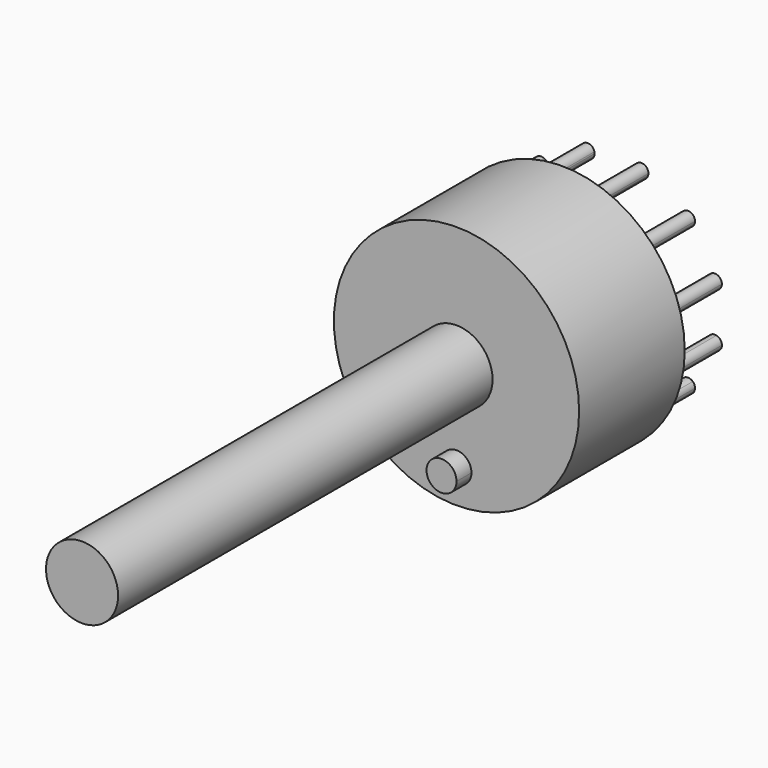
from build123d import *

# Parameters (mm, degrees)
F0_R     = 13.1
F0_R_2   = 3.85
F1_DEPTH = 14.1
F2_DEPTH = 16.1
F3_DEPTH = 64.1
F4_DEPTH = 7


with BuildPart() as f1:
    # F0 (on Front) → F1 (new body)
    with BuildSketch(Plane.XZ):
        Circle(F0_R)
        with BuildLine():
            ThreePointArc((2.1423026541, 10.8913056765), (2.9582097459, 11.4669080562), (3.6228914006, 10.7217766718))
            ThreePointArc((3.6228914006, 10.7217766718), (3.6147150614, 10.6113336716), (3.5903643172, 10.5032987232))
            ThreePointArc((3.5903643172, 10.5032987232), (5.55, 9.612881982), (7.3009413593, 8.3609960692))
            ThreePointArc((7.3009413593, 8.3609960692), (8.1241506577, 8.5465449066), (8.5988852712, 7.8488852712))
            ThreePointArc((8.5988852712, 7.8488852712), (8.5368471518, 7.5502074334), (8.3609960692, 7.3009413593))
            ThreePointArc((8.3609960692, 7.3009413593), (9.612881982, 5.55), (10.5032987232, 3.5903643172))
            ThreePointArc((10.5032987232, 3.5903643172), (11.1682302184, 3.475534936), (11.4717766718, 2.8728914006))
            ThreePointArc((11.4717766718, 2.8728914006), (11.3089933071, 2.4063331264), (10.8913056765, 2.1423026541))
            ThreePointArc((10.8913056765, 2.1423026541), (11.047703223, 1.0762218617), (11.1, 0))
            ThreePointArc((11.1, 0), (11.047703223, -1.0762218617), (10.8913056765, -2.1423026541))
            ThreePointArc((10.8913056765, -2.1423026541), (11.3089933071, -2.4063331264), (11.4717766718, -2.8728914006))
            ThreePointArc((11.4717766718, -2.8728914006), (11.1682302184, -3.475534936), (10.5032987232, -3.5903643172))
            ThreePointArc((10.5032987232, -3.5903643172), (9.612881982, -5.55), (8.3609960692, -7.3009413593))
            ThreePointArc((8.3609960692, -7.3009413593), (8.5368471518, -7.5502074334), (8.5988852712, -7.8488852712))
            ThreePointArc((8.5988852712, -7.8488852712), (8.1241506577, -8.5465449066), (7.3009413593, -8.3609960692))
            ThreePointArc((7.3009413593, -8.3609960692), (5.55, -9.612881982), (3.5903643172, -10.5032987232))
            ThreePointArc((3.5903643172, -10.5032987232), (3.6147150614, -10.6113336716), (3.6228914006, -10.7217766718))
            ThreePointArc((3.6228914006, -10.7217766718), (2.9582097459, -11.4669080562), (2.1423026541, -10.8913056765))
            ThreePointArc((2.1423026541, -10.8913056765), (1.0762218494, -11.0477032242), (-2.47e-08, -11.1))
            ThreePointArc((-2.47e-08, -11.1), (-1.076221874, -11.0477032218), (-2.1423026541, -10.8913056765))
            ThreePointArc((-2.1423026541, -10.8913056765), (-3.0670056845, -11.4462210415), (-3.5903643172, -10.5032987232))
            ThreePointArc((-3.5903643172, -10.5032987232), (-5.55, -9.612881982), (-7.3009413593, -8.3609960692))
            ThreePointArc((-7.3009413593, -8.3609960692), (-8.3792153571, -8.3792153571), (-8.3609960692, -7.3009413593))
            ThreePointArc((-8.3609960692, -7.3009413593), (-9.612881982, -5.55), (-10.5032987232, -3.5903643172))
            ThreePointArc((-10.5032987232, -3.5903643172), (-11.4462210415, -3.0670056845), (-10.8913056765, -2.1423026541))
            ThreePointArc((-10.8913056765, -2.1423026541), (-11.1, 0), (-10.8913056765, 2.1423026541))
            ThreePointArc((-10.8913056765, 2.1423026541), (-11.4462210415, 3.0670056845), (-10.5032987232, 3.5903643172))
            ThreePointArc((-10.5032987232, 3.5903643172), (-9.612881982, 5.55), (-8.3609960692, 7.3009413593))
            ThreePointArc((-8.3609960692, 7.3009413593), (-8.3792153571, 8.3792153571), (-7.3009413593, 8.3609960692))
            ThreePointArc((-7.3009413593, 8.3609960692), (-5.55, 9.612881982), (-3.5903643172, 10.5032987232))
            ThreePointArc((-3.5903643172, 10.5032987232), (-3.0670056845, 11.4462210415), (-2.1423026541, 10.8913056765))
            ThreePointArc((-2.1423026541, 10.8913056765), (0, 11.1), (2.1423026541, 10.8913056765))
        make_face(mode=Mode.SUBTRACT)
        with BuildLine():
            ThreePointArc((3.5903643172, 10.5032987232), (2.8728914006, 10.7217766718), (2.1423026541, 10.8913056765))
            ThreePointArc((2.1423026541, 10.8913056765), (2.6787771168, 9.9973323021), (3.5903643172, 10.5032987232))
        make_face()
        with BuildLine():
            ThreePointArc((-3.5903643172, 10.5032987232), (-2.8728914006, 10.7217766718), (-2.1423026541, 10.8913056765))
            ThreePointArc((-2.1423026541, 10.8913056765), (-3.0670056845, 11.4462210415), (-3.5903643172, 10.5032987232))
        make_face()
        with BuildLine():
            ThreePointArc((8.3609960692, 7.3009413593), (7.8488852712, 7.8488852712), (7.3009413593, 8.3609960692))
            ThreePointArc((7.3009413593, 8.3609960692), (7.3185551853, 7.3185551853), (8.3609960692, 7.3009413593))
        make_face()
        with BuildLine():
            ThreePointArc((11.4717766718, 2.8728914006), (11.1682302184, 3.475534936), (10.5032987232, 3.5903643172))
            ThreePointArc((10.5032987232, 3.5903643172), (10.7217766718, 2.8728914006), (10.8913056765, 2.1423026541))
            ThreePointArc((10.8913056765, 2.1423026541), (11.3089933071, 2.4063331264), (11.4717766718, 2.8728914006))
        make_face()
        with BuildLine():
            ThreePointArc((10.5032987232, -3.5903643172), (10.7217766718, -2.8728914006), (10.8913056765, -2.1423026541))
            ThreePointArc((10.8913056765, -2.1423026541), (9.9973323021, -2.6787771168), (10.5032987232, -3.5903643172))
        make_face()
        with BuildLine():
            ThreePointArc((7.3009413593, -8.3609960692), (7.8488852712, -7.8488852712), (8.3609960692, -7.3009413593))
            ThreePointArc((8.3609960692, -7.3009413593), (7.3185551853, -7.3185551853), (7.3009413593, -8.3609960692))
        make_face()
        with BuildLine():
            ThreePointArc((2.1423026541, -10.8913056765), (2.8728914006, -10.7217766718), (3.5903643172, -10.5032987232))
            ThreePointArc((3.5903643172, -10.5032987232), (2.6787771168, -9.9973323021), (2.1423026541, -10.8913056765))
        make_face()
        with BuildLine():
            ThreePointArc((-8.3609960692, 7.3009413593), (-7.8488852712, 7.8488852712), (-7.3009413593, 8.3609960692))
            ThreePointArc((-7.3009413593, 8.3609960692), (-8.3792153571, 8.3792153571), (-8.3609960692, 7.3009413593))
        make_face()
        with BuildLine():
            ThreePointArc((-10.8913056765, 2.1423026541), (-10.7217766718, 2.8728914006), (-10.5032987232, 3.5903643172))
            ThreePointArc((-10.5032987232, 3.5903643172), (-11.4462210415, 3.0670056845), (-10.8913056765, 2.1423026541))
        make_face()
        with BuildLine():
            ThreePointArc((-10.5032987232, -3.5903643172), (-10.7217766718, -2.8728914006), (-10.8913056765, -2.1423026541))
            ThreePointArc((-10.8913056765, -2.1423026541), (-11.4462210415, -3.0670056845), (-10.5032987232, -3.5903643172))
        make_face()
        with BuildLine():
            ThreePointArc((-7.3009413593, -8.3609960692), (-7.8488852712, -7.8488852712), (-8.3609960692, -7.3009413593))
            ThreePointArc((-8.3609960692, -7.3009413593), (-8.3792153571, -8.3792153571), (-7.3009413593, -8.3609960692))
        make_face()
        with BuildLine():
            ThreePointArc((-2.1423026541, -10.8913056765), (-2.8728914006, -10.7217766718), (-3.5903643172, -10.5032987232))
            ThreePointArc((-3.5903643172, -10.5032987232), (-3.0670056845, -11.4462210415), (-2.1423026541, -10.8913056765))
        make_face()
        with BuildLine():
            ThreePointArc((3.5903643172, 10.5032987232), (2.6787771168, 9.9973323021), (2.1423026541, 10.8913056765))
            ThreePointArc((2.1423026541, 10.8913056765), (0, 11.1), (-2.1423026541, 10.8913056765))
            ThreePointArc((-2.1423026541, 10.8913056765), (-2.1277600163, 10.8070950171), (-2.1228914006, 10.7217766718))
            ThreePointArc((-2.1228914006, 10.7217766718), (-2.7624484004, 9.979953011), (-3.5903643172, 10.5032987232))
            ThreePointArc((-3.5903643172, 10.5032987232), (-5.55, 9.612881982), (-7.3009413593, 8.3609960692))
            ThreePointArc((-7.3009413593, 8.3609960692), (-7.1512256357, 8.1241506577), (-7.0988852712, 7.8488852712))
            ThreePointArc((-7.0988852712, 7.8488852712), (-7.5502074334, 7.1609233905), (-8.3609960692, 7.3009413593))
            ThreePointArc((-8.3609960692, 7.3009413593), (-9.612881982, 5.55), (-10.5032987232, 3.5903643172))
            ThreePointArc((-10.5032987232, 3.5903643172), (-10.1191331364, 3.3193449473), (-9.9717766718, 2.8728914006))
            ThreePointArc((-9.9717766718, 2.8728914006), (-10.2552183976, 2.2856747654), (-10.8913056765, 2.1423026541))
            ThreePointArc((-10.8913056765, 2.1423026541), (-11.1, 0), (-10.8913056765, -2.1423026541))
            ThreePointArc((-10.8913056765, -2.1423026541), (-10.2552183976, -2.2856747654), (-9.9717766718, -2.8728914006))
            ThreePointArc((-9.9717766718, -2.8728914006), (-10.1191331364, -3.3193449473), (-10.5032987232, -3.5903643172))
            ThreePointArc((-10.5032987232, -3.5903643172), (-9.612881982, -5.55), (-8.3609960692, -7.3009413593))
            ThreePointArc((-8.3609960692, -7.3009413593), (-7.5502074334, -7.1609233905), (-7.0988852712, -7.8488852712))
            ThreePointArc((-7.0988852712, -7.8488852712), (-7.1512256357, -8.1241506577), (-7.3009413593, -8.3609960692))
            ThreePointArc((-7.3009413593, -8.3609960692), (-5.55, -9.612881982), (-3.5903643172, -10.5032987232))
            ThreePointArc((-3.5903643172, -10.5032987232), (-2.7624484004, -9.979953011), (-2.1228914006, -10.7217766718))
            ThreePointArc((-2.1228914006, -10.7217766718), (-2.1277600163, -10.8070950171), (-2.1423026541, -10.8913056765))
            ThreePointArc((-2.1423026541, -10.8913056765), (-1.076221874, -11.0477032218), (-2.47e-08, -11.1))
            ThreePointArc((-2.47e-08, -11.1), (1.0762218494, -11.0477032242), (2.1423026541, -10.8913056765))
            ThreePointArc((2.1423026541, -10.8913056765), (2.6787771168, -9.9973323021), (3.5903643172, -10.5032987232))
            ThreePointArc((3.5903643172, -10.5032987232), (5.55, -9.612881982), (7.3009413593, -8.3609960692))
            ThreePointArc((7.3009413593, -8.3609960692), (7.3185551853, -7.3185551853), (8.3609960692, -7.3009413593))
            ThreePointArc((8.3609960692, -7.3009413593), (9.612881982, -5.55), (10.5032987232, -3.5903643172))
            ThreePointArc((10.5032987232, -3.5903643172), (9.9973323021, -2.6787771168), (10.8913056765, -2.1423026541))
            ThreePointArc((10.8913056765, -2.1423026541), (11.047703223, -1.0762218617), (11.1, 0))
            ThreePointArc((11.1, 0), (11.047703223, 1.0762218617), (10.8913056765, 2.1423026541))
            ThreePointArc((10.8913056765, 2.1423026541), (9.9973323021, 2.6787771168), (10.5032987232, 3.5903643172))
            ThreePointArc((10.5032987232, 3.5903643172), (9.612881982, 5.55), (8.3609960692, 7.3009413593))
            ThreePointArc((8.3609960692, 7.3009413593), (7.3185551853, 7.3185551853), (7.3009413593, 8.3609960692))
            ThreePointArc((7.3009413593, 8.3609960692), (5.55, 9.612881982), (3.5903643172, 10.5032987232))
        make_face()
        with BuildLine():
            ThreePointArc((1.6, -9.5), (1.1313708412, -10.6313708586), (-2.47e-08, -11.1))
            ThreePointArc((-2.47e-08, -11.1), (-1.1313708412, -8.3686291414), (1.6, -9.5))
        make_face(mode=Mode.SUBTRACT)
        Circle(F0_R_2, mode=Mode.SUBTRACT)
        with BuildLine():
            ThreePointArc((-7.0988852712, 7.8488852712), (-7.1512256357, 8.1241506577), (-7.3009413593, 8.3609960692))
            ThreePointArc((-7.3009413593, 8.3609960692), (-7.8488852712, 7.8488852712), (-8.3609960692, 7.3009413593))
            ThreePointArc((-8.3609960692, 7.3009413593), (-7.5502074334, 7.1609233905), (-7.0988852712, 7.8488852712))
        make_face()
        with BuildLine():
            ThreePointArc((-2.1228914006, 10.7217766718), (-2.1277600163, 10.8070950171), (-2.1423026541, 10.8913056765))
            ThreePointArc((-2.1423026541, 10.8913056765), (-2.8728914006, 10.7217766718), (-3.5903643172, 10.5032987232))
            ThreePointArc((-3.5903643172, 10.5032987232), (-2.7624484004, 9.979953011), (-2.1228914006, 10.7217766718))
        make_face()
        with BuildLine():
            ThreePointArc((3.5903643172, 10.5032987232), (3.6147150614, 10.6113336716), (3.6228914006, 10.7217766718))
            ThreePointArc((3.6228914006, 10.7217766718), (2.9582097459, 11.4669080562), (2.1423026541, 10.8913056765))
            ThreePointArc((2.1423026541, 10.8913056765), (2.8728914006, 10.7217766718), (3.5903643172, 10.5032987232))
        make_face()
        with BuildLine():
            ThreePointArc((8.5988852712, 7.8488852712), (8.1241506577, 8.5465449066), (7.3009413593, 8.3609960692))
            ThreePointArc((7.3009413593, 8.3609960692), (7.8488852712, 7.8488852712), (8.3609960692, 7.3009413593))
            ThreePointArc((8.3609960692, 7.3009413593), (8.5368471518, 7.5502074334), (8.5988852712, 7.8488852712))
        make_face()
        with BuildLine():
            ThreePointArc((10.8913056765, 2.1423026541), (10.7217766718, 2.8728914006), (10.5032987232, 3.5903643172))
            ThreePointArc((10.5032987232, 3.5903643172), (9.9973323021, 2.6787771168), (10.8913056765, 2.1423026541))
        make_face()
        with BuildLine():
            ThreePointArc((11.4717766718, -2.8728914006), (11.3089933071, -2.4063331264), (10.8913056765, -2.1423026541))
            ThreePointArc((10.8913056765, -2.1423026541), (10.7217766718, -2.8728914006), (10.5032987232, -3.5903643172))
            ThreePointArc((10.5032987232, -3.5903643172), (11.1682302184, -3.475534936), (11.4717766718, -2.8728914006))
        make_face()
        with BuildLine():
            ThreePointArc((8.5988852712, -7.8488852712), (8.5368471518, -7.5502074334), (8.3609960692, -7.3009413593))
            ThreePointArc((8.3609960692, -7.3009413593), (7.8488852712, -7.8488852712), (7.3009413593, -8.3609960692))
            ThreePointArc((7.3009413593, -8.3609960692), (8.1241506577, -8.5465449066), (8.5988852712, -7.8488852712))
        make_face()
        with BuildLine():
            ThreePointArc((3.6228914006, -10.7217766718), (3.6147150614, -10.6113336716), (3.5903643172, -10.5032987232))
            ThreePointArc((3.5903643172, -10.5032987232), (2.8728914006, -10.7217766718), (2.1423026541, -10.8913056765))
            ThreePointArc((2.1423026541, -10.8913056765), (2.9582097459, -11.4669080562), (3.6228914006, -10.7217766718))
        make_face()
        with BuildLine():
            ThreePointArc((-2.1228914006, -10.7217766718), (-2.7624484004, -9.979953011), (-3.5903643172, -10.5032987232))
            ThreePointArc((-3.5903643172, -10.5032987232), (-2.8728914006, -10.7217766718), (-2.1423026541, -10.8913056765))
            ThreePointArc((-2.1423026541, -10.8913056765), (-2.1277600163, -10.8070950171), (-2.1228914006, -10.7217766718))
        make_face()
        with BuildLine():
            ThreePointArc((-7.0988852712, -7.8488852712), (-7.5502074334, -7.1609233905), (-8.3609960692, -7.3009413593))
            ThreePointArc((-8.3609960692, -7.3009413593), (-7.8488852712, -7.8488852712), (-7.3009413593, -8.3609960692))
            ThreePointArc((-7.3009413593, -8.3609960692), (-7.1512256357, -8.1241506577), (-7.0988852712, -7.8488852712))
        make_face()
        with BuildLine():
            ThreePointArc((-9.9717766718, -2.8728914006), (-10.2552183976, -2.2856747654), (-10.8913056765, -2.1423026541))
            ThreePointArc((-10.8913056765, -2.1423026541), (-10.7217766718, -2.8728914006), (-10.5032987232, -3.5903643172))
            ThreePointArc((-10.5032987232, -3.5903643172), (-10.1191331364, -3.3193449473), (-9.9717766718, -2.8728914006))
        make_face()
        with BuildLine():
            ThreePointArc((-9.9717766718, 2.8728914006), (-10.1191331364, 3.3193449473), (-10.5032987232, 3.5903643172))
            ThreePointArc((-10.5032987232, 3.5903643172), (-10.7217766718, 2.8728914006), (-10.8913056765, 2.1423026541))
            ThreePointArc((-10.8913056765, 2.1423026541), (-10.2552183976, 2.2856747654), (-9.9717766718, 2.8728914006))
        make_face()
    extrude(amount=F1_DEPTH)

    # F0 (on Front) → F2 (join, through all)
    with BuildSketch(Plane.XZ):
        with BuildLine():
            ThreePointArc((1.6, -9.5), (-1.1313708412, -8.3686291414), (-2.47e-08, -11.1))
            ThreePointArc((-2.47e-08, -11.1), (1.1313708412, -10.6313708586), (1.6, -9.5))
        make_face()
    extrude(amount=F2_DEPTH)

    # F0 (on Front) → F3 (join, through all)
    with BuildSketch(Plane.XZ):
        Circle(F0_R_2)
    extrude(amount=F3_DEPTH)

    # F0 (on Front) → F4 (join)
    with BuildSketch(Plane.XZ):
        with BuildLine():
            ThreePointArc((3.6228914006, -10.7217766718), (3.6147150614, -10.6113336716), (3.5903643172, -10.5032987232))
            ThreePointArc((3.5903643172, -10.5032987232), (2.8728914006, -10.7217766718), (2.1423026541, -10.8913056765))
            ThreePointArc((2.1423026541, -10.8913056765), (2.9582097459, -11.4669080562), (3.6228914006, -10.7217766718))
        make_face()
        with BuildLine():
            ThreePointArc((2.1423026541, -10.8913056765), (2.8728914006, -10.7217766718), (3.5903643172, -10.5032987232))
            ThreePointArc((3.5903643172, -10.5032987232), (2.6787771168, -9.9973323021), (2.1423026541, -10.8913056765))
        make_face()
        with BuildLine():
            ThreePointArc((8.5988852712, -7.8488852712), (8.5368471518, -7.5502074334), (8.3609960692, -7.3009413593))
            ThreePointArc((8.3609960692, -7.3009413593), (7.8488852712, -7.8488852712), (7.3009413593, -8.3609960692))
            ThreePointArc((7.3009413593, -8.3609960692), (8.1241506577, -8.5465449066), (8.5988852712, -7.8488852712))
        make_face()
        with BuildLine():
            ThreePointArc((7.3009413593, -8.3609960692), (7.8488852712, -7.8488852712), (8.3609960692, -7.3009413593))
            ThreePointArc((8.3609960692, -7.3009413593), (7.3185551853, -7.3185551853), (7.3009413593, -8.3609960692))
        make_face()
        with BuildLine():
            ThreePointArc((11.4717766718, -2.8728914006), (11.3089933071, -2.4063331264), (10.8913056765, -2.1423026541))
            ThreePointArc((10.8913056765, -2.1423026541), (10.7217766718, -2.8728914006), (10.5032987232, -3.5903643172))
            ThreePointArc((10.5032987232, -3.5903643172), (11.1682302184, -3.475534936), (11.4717766718, -2.8728914006))
        make_face()
        with BuildLine():
            ThreePointArc((10.5032987232, -3.5903643172), (10.7217766718, -2.8728914006), (10.8913056765, -2.1423026541))
            ThreePointArc((10.8913056765, -2.1423026541), (9.9973323021, -2.6787771168), (10.5032987232, -3.5903643172))
        make_face()
        with BuildLine():
            ThreePointArc((-2.1423026541, -10.8913056765), (-2.8728914006, -10.7217766718), (-3.5903643172, -10.5032987232))
            ThreePointArc((-3.5903643172, -10.5032987232), (-3.0670056845, -11.4462210415), (-2.1423026541, -10.8913056765))
        make_face()
        with BuildLine():
            ThreePointArc((-2.1228914006, -10.7217766718), (-2.7624484004, -9.979953011), (-3.5903643172, -10.5032987232))
            ThreePointArc((-3.5903643172, -10.5032987232), (-2.8728914006, -10.7217766718), (-2.1423026541, -10.8913056765))
            ThreePointArc((-2.1423026541, -10.8913056765), (-2.1277600163, -10.8070950171), (-2.1228914006, -10.7217766718))
        make_face()
        with BuildLine():
            ThreePointArc((-7.3009413593, -8.3609960692), (-7.8488852712, -7.8488852712), (-8.3609960692, -7.3009413593))
            ThreePointArc((-8.3609960692, -7.3009413593), (-8.3792153571, -8.3792153571), (-7.3009413593, -8.3609960692))
        make_face()
        with BuildLine():
            ThreePointArc((-7.0988852712, -7.8488852712), (-7.5502074334, -7.1609233905), (-8.3609960692, -7.3009413593))
            ThreePointArc((-8.3609960692, -7.3009413593), (-7.8488852712, -7.8488852712), (-7.3009413593, -8.3609960692))
            ThreePointArc((-7.3009413593, -8.3609960692), (-7.1512256357, -8.1241506577), (-7.0988852712, -7.8488852712))
        make_face()
        with BuildLine():
            ThreePointArc((-9.9717766718, -2.8728914006), (-10.2552183976, -2.2856747654), (-10.8913056765, -2.1423026541))
            ThreePointArc((-10.8913056765, -2.1423026541), (-10.7217766718, -2.8728914006), (-10.5032987232, -3.5903643172))
            ThreePointArc((-10.5032987232, -3.5903643172), (-10.1191331364, -3.3193449473), (-9.9717766718, -2.8728914006))
        make_face()
        with BuildLine():
            ThreePointArc((-10.5032987232, -3.5903643172), (-10.7217766718, -2.8728914006), (-10.8913056765, -2.1423026541))
            ThreePointArc((-10.8913056765, -2.1423026541), (-11.4462210415, -3.0670056845), (-10.5032987232, -3.5903643172))
        make_face()
        with BuildLine():
            ThreePointArc((-9.9717766718, 2.8728914006), (-10.1191331364, 3.3193449473), (-10.5032987232, 3.5903643172))
            ThreePointArc((-10.5032987232, 3.5903643172), (-10.7217766718, 2.8728914006), (-10.8913056765, 2.1423026541))
            ThreePointArc((-10.8913056765, 2.1423026541), (-10.2552183976, 2.2856747654), (-9.9717766718, 2.8728914006))
        make_face()
        with BuildLine():
            ThreePointArc((-10.8913056765, 2.1423026541), (-10.7217766718, 2.8728914006), (-10.5032987232, 3.5903643172))
            ThreePointArc((-10.5032987232, 3.5903643172), (-11.4462210415, 3.0670056845), (-10.8913056765, 2.1423026541))
        make_face()
        with BuildLine():
            ThreePointArc((-7.0988852712, 7.8488852712), (-7.1512256357, 8.1241506577), (-7.3009413593, 8.3609960692))
            ThreePointArc((-7.3009413593, 8.3609960692), (-7.8488852712, 7.8488852712), (-8.3609960692, 7.3009413593))
            ThreePointArc((-8.3609960692, 7.3009413593), (-7.5502074334, 7.1609233905), (-7.0988852712, 7.8488852712))
        make_face()
        with BuildLine():
            ThreePointArc((-8.3609960692, 7.3009413593), (-7.8488852712, 7.8488852712), (-7.3009413593, 8.3609960692))
            ThreePointArc((-7.3009413593, 8.3609960692), (-8.3792153571, 8.3792153571), (-8.3609960692, 7.3009413593))
        make_face()
        with BuildLine():
            ThreePointArc((3.5903643172, 10.5032987232), (3.6147150614, 10.6113336716), (3.6228914006, 10.7217766718))
            ThreePointArc((3.6228914006, 10.7217766718), (2.9582097459, 11.4669080562), (2.1423026541, 10.8913056765))
            ThreePointArc((2.1423026541, 10.8913056765), (2.8728914006, 10.7217766718), (3.5903643172, 10.5032987232))
        make_face()
        with BuildLine():
            ThreePointArc((3.5903643172, 10.5032987232), (2.8728914006, 10.7217766718), (2.1423026541, 10.8913056765))
            ThreePointArc((2.1423026541, 10.8913056765), (2.6787771168, 9.9973323021), (3.5903643172, 10.5032987232))
        make_face()
        with BuildLine():
            ThreePointArc((10.8913056765, 2.1423026541), (10.7217766718, 2.8728914006), (10.5032987232, 3.5903643172))
            ThreePointArc((10.5032987232, 3.5903643172), (9.9973323021, 2.6787771168), (10.8913056765, 2.1423026541))
        make_face()
        with BuildLine():
            ThreePointArc((11.4717766718, 2.8728914006), (11.1682302184, 3.475534936), (10.5032987232, 3.5903643172))
            ThreePointArc((10.5032987232, 3.5903643172), (10.7217766718, 2.8728914006), (10.8913056765, 2.1423026541))
            ThreePointArc((10.8913056765, 2.1423026541), (11.3089933071, 2.4063331264), (11.4717766718, 2.8728914006))
        make_face()
        with BuildLine():
            ThreePointArc((8.5988852712, 7.8488852712), (8.1241506577, 8.5465449066), (7.3009413593, 8.3609960692))
            ThreePointArc((7.3009413593, 8.3609960692), (7.8488852712, 7.8488852712), (8.3609960692, 7.3009413593))
            ThreePointArc((8.3609960692, 7.3009413593), (8.5368471518, 7.5502074334), (8.5988852712, 7.8488852712))
        make_face()
        with BuildLine():
            ThreePointArc((8.3609960692, 7.3009413593), (7.8488852712, 7.8488852712), (7.3009413593, 8.3609960692))
            ThreePointArc((7.3009413593, 8.3609960692), (7.3185551853, 7.3185551853), (8.3609960692, 7.3009413593))
        make_face()
        with BuildLine():
            ThreePointArc((-2.1228914006, 10.7217766718), (-2.1277600163, 10.8070950171), (-2.1423026541, 10.8913056765))
            ThreePointArc((-2.1423026541, 10.8913056765), (-2.8728914006, 10.7217766718), (-3.5903643172, 10.5032987232))
            ThreePointArc((-3.5903643172, 10.5032987232), (-2.7624484004, 9.979953011), (-2.1228914006, 10.7217766718))
        make_face()
        with BuildLine():
            ThreePointArc((-3.5903643172, 10.5032987232), (-2.8728914006, 10.7217766718), (-2.1423026541, 10.8913056765))
            ThreePointArc((-2.1423026541, 10.8913056765), (-3.0670056845, 11.4462210415), (-3.5903643172, 10.5032987232))
        make_face()
    extrude(amount=-F4_DEPTH)


solid = f1.part
